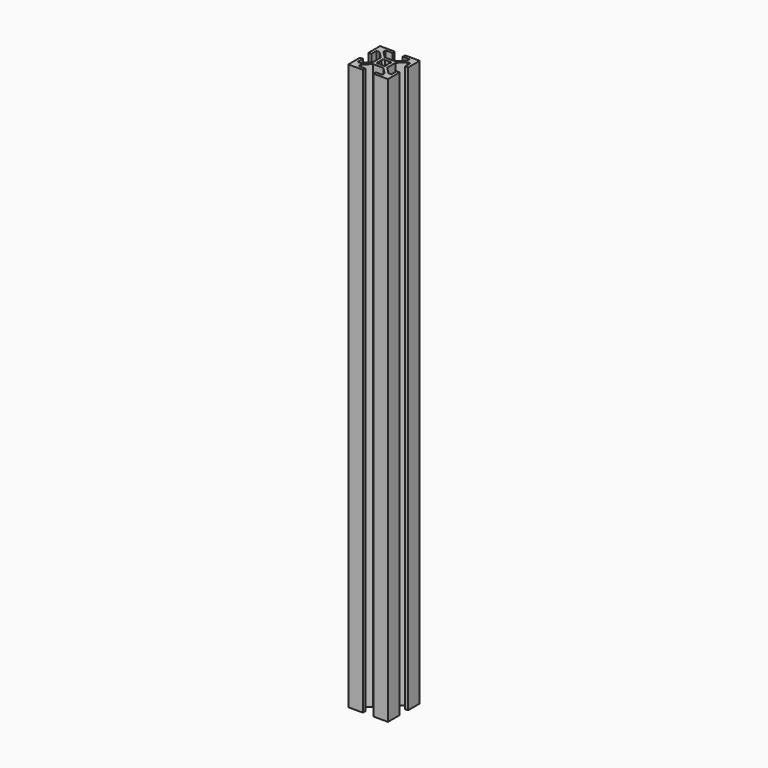
from build123d import *

# Parameters (mm, degrees)
F1_DEPTH = 285


with BuildPart() as f1:
    # F0 (on Top) → F1 (new body)
    with BuildSketch(Plane.XY):
        Polygon((10, 2.63), (10, 10), (2.63, 10), (2.63, 8.5), (5.995, 8.5), (5.995, 7.05566), (2.59934, 3.66), (-2.59934, 3.66), (-5.995, 7.05566), (-5.995, 8.5), (-2.63, 8.5), (-2.63, 10), (-10, 10), (-10, 2.63), (-8.5, 2.63), (-8.5, 5.995), (-7.05566, 5.995), (-3.66, 2.59934), (-3.66, -2.59934), (-7.05566, -5.995), (-8.5, -5.995), (-8.5, -2.63), (-10, -2.63), (-10, -10), (-2.63, -10), (-2.63, -8.5), (-5.995, -8.5), (-5.995, -7.05566), (-2.59934, -3.66), (2.59934, -3.66), (5.995, -7.05566), (5.995, -8.5), (2.63, -8.5), (2.63, -10), (10, -10), (10, -2.63), (8.5, -2.63), (8.5, -5.995), (7.05566, -5.995), (3.66, -2.59934), (3.66, 2.59934), (7.05566, 5.995), (8.5, 5.995), (8.5, 2.63), align=None)
        with BuildLine():
            ThreePointArc((1.886053, 0.912048), (2.042095, 0.467838), (2.095, 0))
            ThreePointArc((2.095, 0), (2.042095, -0.467838), (1.886053, -0.912048))
            ThreePointArc((1.886053, -0.912048), (2.102098, -1.161042), (2.179889, -1.481389))
            ThreePointArc((2.179889, -1.481389), (1.693777, -2.146816), (0.912048, -1.886053))
            ThreePointArc((0.912048, -1.886053), (0, -2.095), (-0.912048, -1.886053))
            ThreePointArc((-0.912048, -1.886053), (-1.975303, -1.975303), (-1.886053, -0.912048))
            ThreePointArc((-1.886053, -0.912048), (-2.095, 0), (-1.886053, 0.912048))
            ThreePointArc((-1.886053, 0.912048), (-1.975303, 1.975303), (-0.912048, 1.886053))
            ThreePointArc((-0.912048, 1.886053), (0, 2.095), (0.912048, 1.886053))
            ThreePointArc((0.912048, 1.886053), (1.693777, 2.146816), (2.179889, 1.481389))
            ThreePointArc((2.179889, 1.481389), (2.102098, 1.161042), (1.886053, 0.912048))
        make_face(mode=Mode.SUBTRACT)
    extrude(amount=F1_DEPTH)


solid = f1.part
